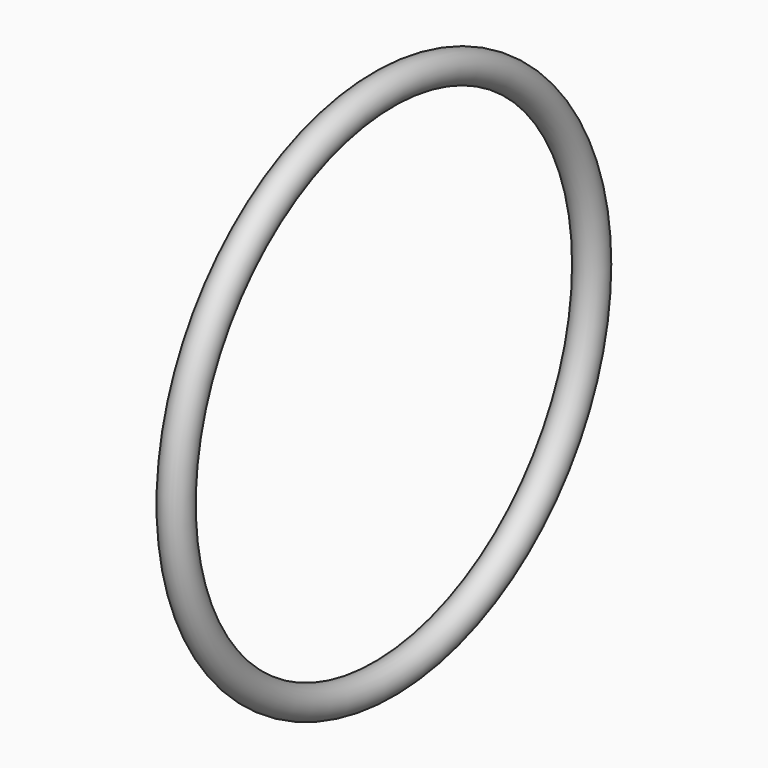
from build123d import *

# Parameters (mm, degrees)
F1_R = 1.4224


with BuildPart() as f2:
    # F2: sweep along a path in F0
    with BuildLine(Plane.YZ) as f2_path:
        CenterArc((0, 0), 25.527, 0, 360)
    # F1 (on Top) → F2 (sweep)
    with BuildSketch(Plane.XY):
        with Locations((0, 24.1046)):
            Circle(F1_R)
    sweep(path=f2_path.line)


solid = f2.part
